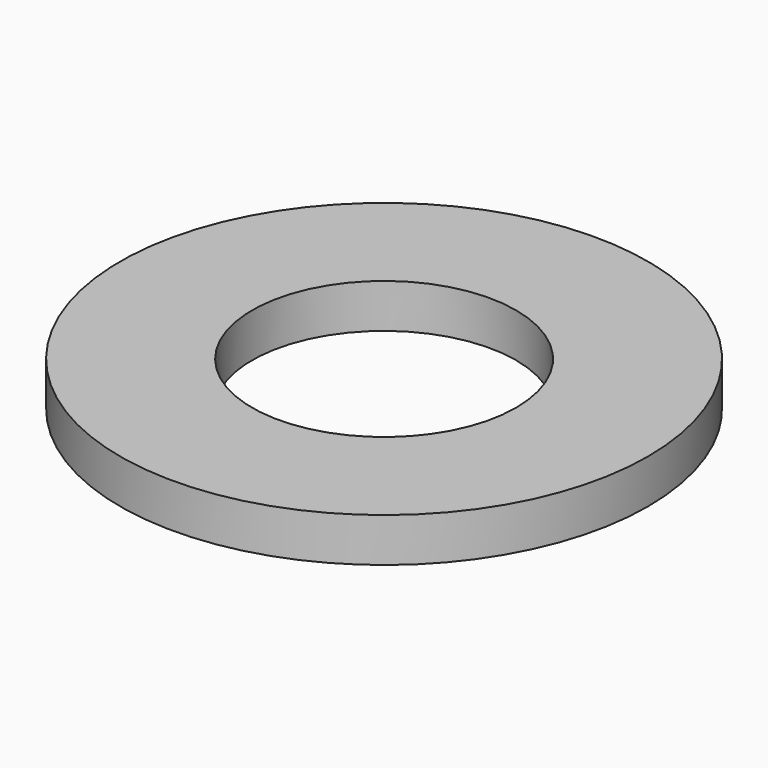
from build123d import *

# Parameters (mm, degrees)
F3_R     = 30
F5_DEPTH = 5
F4_R     = 15
F6_DEPTH = 5.001


with BuildPart() as f5:
    # F3 (on Top) → F5 (new body)
    with BuildSketch(Plane.XY):
        with Locations((-65.221436, 0)):
            Circle(F3_R)
    extrude(amount=-F5_DEPTH)

    # F4 (on Top) → F6 (cut, through all)
    with BuildSketch(Plane.XY):
        with Locations((-65.221436, 0)):
            Circle(F4_R)
    extrude(amount=-F6_DEPTH, mode=Mode.SUBTRACT)


solid = f5.part
